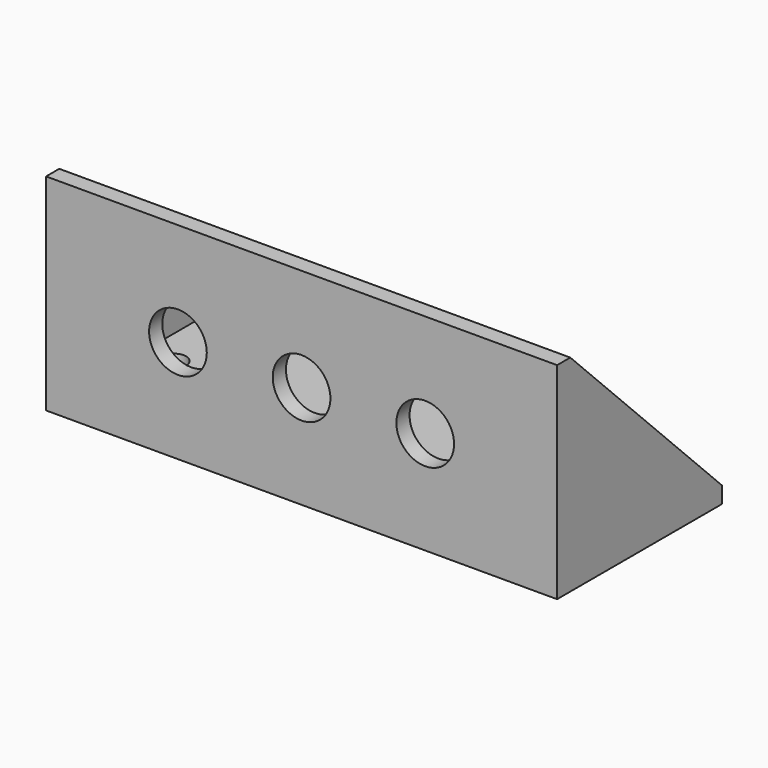
from build123d import *

# Parameters (mm, degrees)
F0_W     = 62
F0_H     = 25
F1_DEPTH = 25
F2_R     = 3.5
F3_DEPTH = 25
F4_W     = 58
F4_H     = 23
F5_DEPTH = 23
F7_DEPTH = 62.001
F8_R     = 1.5
F9_DEPTH = 2.001


with BuildPart() as f1:
    # F0 (on Top) → F1 (new body)
    with BuildSketch(Plane.XY):
        Rectangle(F0_W, F0_H)
    extrude(amount=F1_DEPTH)

    # F2 (on face) → F3 (cut)
    with BuildSketch(Plane.XZ.offset(12.5)):
        with Locations((0, 12.5)):
            Circle(F2_R)
        with Locations((-15, 12.5)):
            Circle(F2_R)
        with Locations((15, 12.5)):
            Circle(F2_R)
    extrude(amount=-F3_DEPTH, mode=Mode.SUBTRACT)

    # F4 (on face) → F5 (cut)
    with BuildSketch(Plane.XY.offset(25)):
        with Locations((0, 1)):
            Rectangle(F4_W, F4_H)
    extrude(amount=-F5_DEPTH, mode=Mode.SUBTRACT)

    # F6 (on face) → F7 (cut, through all)
    with BuildSketch(Plane.YZ.offset(31)):
        Polygon((12.5, 25), (-10.5, 25), (12.5, 2), align=None)
    extrude(amount=-F7_DEPTH, mode=Mode.SUBTRACT)

    # F8 (on face) → F9 (cut, through all)
    with BuildSketch(Plane.XY.offset(2)):
        with Locations((-25.5, 0)):
            Circle(F8_R)
        with Locations((25.5, 0)):
            Circle(F8_R)
    extrude(amount=-F9_DEPTH, mode=Mode.SUBTRACT)


solid = f1.part
